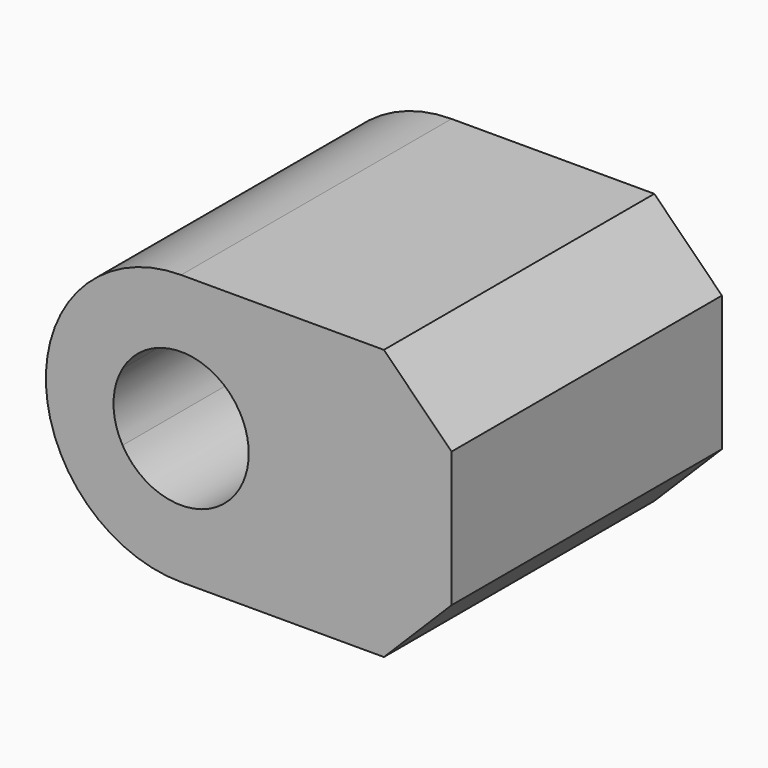
from build123d import *

# Parameters (mm, degrees)
F1_DEPTH = 25


with BuildPart() as f1:
    # F0 (on Front) → F1 (new body)
    with BuildSketch(Plane.XZ):
        with BuildLine():
            ThreePointArc((9.682458, 7.5), (6.123724, 2.094306), (0, 0))
            Line((0, 0), (15, 0))
            Line((15, 0), (20, 5))
            Line((20, 5), (20, 7.5))
            Line((20, 7.5), (9.682458, 7.5))
        make_face()
        with BuildLine():
            ThreePointArc((-9.682458, 7.5), (-6.123724, 2.094306), (0, 0))
            ThreePointArc((0, 0), (6.123724, 2.094306), (9.682458, 7.5))
            Line((9.682458, 7.5), (4.330127, 7.5))
            ThreePointArc((4.330127, 7.5), (0, 5), (-4.330127, 7.5))
            Line((-4.330127, 7.5), (-9.682458, 7.5))
        make_face()
        with BuildLine():
            ThreePointArc((-9.682458, 12.5), (-10, 10), (-9.682458, 7.5))
            Line((-9.682458, 7.5), (-4.330127, 7.5))
            ThreePointArc((-4.330127, 7.5), (-5, 10), (-4.330127, 12.5))
            Line((-4.330127, 12.5), (-9.682458, 12.5))
        make_face()
        with BuildLine():
            Line((4.330127, 7.5), (9.682458, 7.5))
            Line((9.682458, 7.5), (20, 7.5))
            Line((20, 7.5), (20, 12.5))
            Line((20, 12.5), (9.682458, 12.5))
            Line((9.682458, 12.5), (4.330127, 12.5))
            ThreePointArc((4.330127, 12.5), (4.829629, 11.294095), (5, 10))
            ThreePointArc((5, 10), (4.829629, 8.705905), (4.330127, 7.5))
        make_face()
        with BuildLine():
            ThreePointArc((0, 20), (-6.123724, 17.905694), (-9.682458, 12.5))
            Line((-9.682458, 12.5), (-4.330127, 12.5))
            ThreePointArc((-4.330127, 12.5), (0, 15), (4.330127, 12.5))
            Line((4.330127, 12.5), (9.682458, 12.5))
            ThreePointArc((9.682458, 12.5), (6.123724, 17.905694), (0, 20))
        make_face()
        with BuildLine():
            Line((15, 20), (0, 20))
            ThreePointArc((0, 20), (6.123724, 17.905694), (9.682458, 12.5))
            Line((9.682458, 12.5), (20, 12.5))
            Line((20, 12.5), (20, 15))
            Line((20, 15), (15, 20))
        make_face()
    extrude(amount=F1_DEPTH)


solid = f1.part
